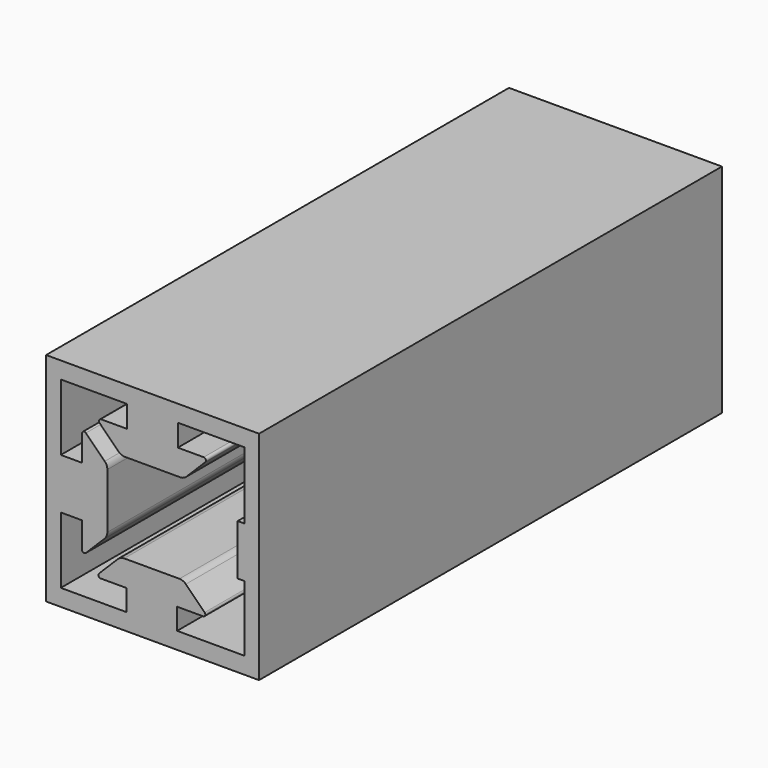
from build123d import *

# Parameters (mm, degrees)
F0_W     = 23.556095
F0_H     = 24.000721
F1_DEPTH = 64


with BuildPart() as f1:
    # F0 (on Front) → F1 (new body)
    with BuildSketch(Plane.XZ):
        with Locations((0.043448, 0.036964)):
            Rectangle(F0_W, F0_H)
        with BuildLine():
            Line((-5.249446, 3.797015), (-7.329776, 5.877345))
            ThreePointArc((-7.329776, 5.877345), (-7.602223, 5.931538), (-7.756552, 5.700568))
            Line((-7.756552, 5.700568), (-7.756552, 2.836964))
            Line((-7.756552, 2.836964), (-10.106552, 2.836964))
            Line((-10.106552, 2.836964), (-10.106552, 10.186964))
            Line((-10.106552, 10.186964), (-2.763036, 10.186964))
            Line((-2.763036, 10.186964), (-2.763036, 7.756552))
            Line((-2.763036, 7.756552), (-5.62664, 7.756552))
            ThreePointArc((-5.62664, 7.756552), (-5.85761, 7.602223), (-5.803416, 7.329776))
            Line((-5.803416, 7.329776), (-3.723086, 5.249446))
            ThreePointArc((-3.723086, 5.249446), (-3.398663, 5.032673), (-3.01598, 4.956552))
            Line((-3.01598, 4.956552), (3.089908, 4.956552))
            ThreePointArc((3.089908, 4.956552), (3.472591, 5.032673), (3.797015, 5.249446))
            Line((3.797015, 5.249446), (5.877345, 7.329776))
            ThreePointArc((5.877345, 7.329776), (5.931538, 7.602223), (5.700568, 7.756552))
            Line((5.700568, 7.756552), (2.836964, 7.756552))
            Line((2.836964, 7.756552), (2.836964, 10.186964))
            Line((2.836964, 10.186964), (10.193448, 10.186964))
            Line((10.193448, 10.186964), (10.193448, 2.763036))
            Line((10.193448, 2.763036), (9.462252, 2.763036))
            Line((9.462252, 2.763036), (9.462252, -2.836964))
            Line((9.462252, -2.836964), (10.193448, -2.836964))
            Line((10.193448, -2.836964), (10.193448, -10.113036))
            Line((10.193448, -10.113036), (2.763036, -10.106552))
            Line((2.763036, -10.106552), (2.763036, -7.756552))
            Line((2.763036, -7.756552), (5.62664, -7.756552))
            ThreePointArc((5.62664, -7.756552), (5.85761, -7.602223), (5.803416, -7.329776))
            Line((5.803416, -7.329776), (3.723086, -5.249446))
            ThreePointArc((3.723086, -5.249446), (3.398663, -5.032673), (3.01598, -4.956552))
            Line((3.01598, -4.956552), (-3.089908, -4.956552))
            ThreePointArc((-3.089908, -4.956552), (-3.472591, -5.032673), (-3.797015, -5.249446))
            Line((-3.797015, -5.249446), (-5.877345, -7.329776))
            ThreePointArc((-5.877345, -7.329776), (-5.931538, -7.602223), (-5.700568, -7.756552))
            Line((-5.700568, -7.756552), (-2.836964, -7.756552))
            Line((-2.836964, -7.756552), (-2.836964, -10.106552))
            Line((-2.836964, -10.106552), (-10.106552, -10.106552))
            Line((-10.106552, -10.106552), (-10.106552, -2.763036))
            Line((-10.106552, -2.763036), (-7.756552, -2.763036))
            Line((-7.756552, -2.763036), (-7.756552, -5.62664))
            ThreePointArc((-7.756552, -5.62664), (-7.602223, -5.85761), (-7.329776, -5.803416))
            Line((-7.329776, -5.803416), (-5.249446, -3.723086))
            ThreePointArc((-5.249446, -3.723086), (-5.032673, -3.398663), (-4.956552, -3.01598))
            Line((-4.956552, -3.01598), (-4.956552, 3.089908))
            ThreePointArc((-4.956552, 3.089908), (-5.032673, 3.472591), (-5.249446, 3.797015))
        make_face(mode=Mode.SUBTRACT)
    extrude(amount=F1_DEPTH)


solid = f1.part
